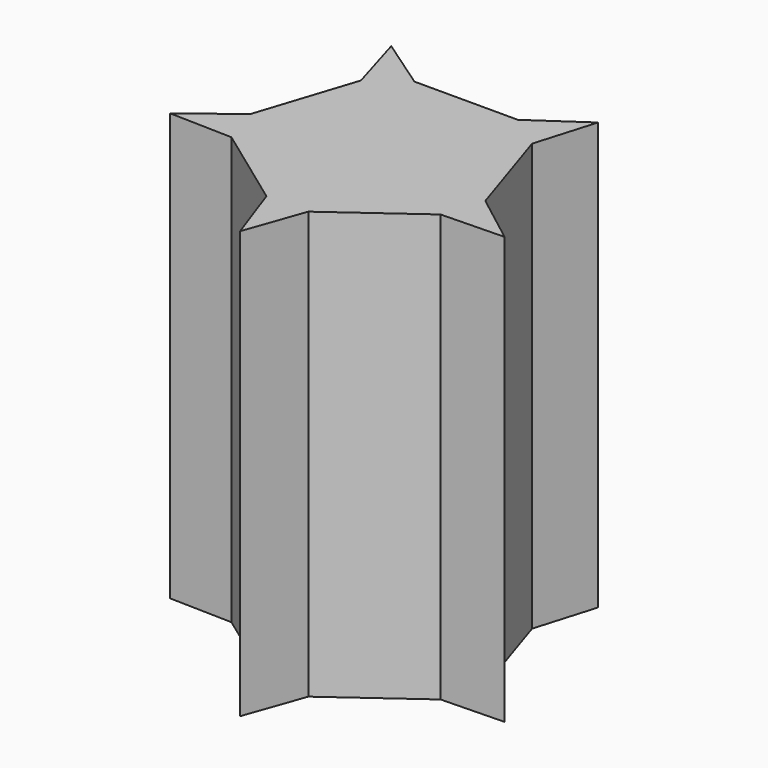
from build123d import *

# Parameters (mm, degrees)
F1_DEPTH = 60
F2_T     = -1
F4_DEPTH = 59
F6_DEPTH = 2


with BuildPart() as f1:
    # F0 (on Top) → F1 (new body)
    with BuildSketch(Plane.XY):
        Polygon((-7.2654252801, 15), (-14.5308505601, 20), (-12.0207078615, 11.5450849719), (-10.8981379201, 15), align=None)
        Polygon((-10.8981379201, 15), (-12.0207078615, 11.5450849719), (-9.510565163, 3.0901699437), (-16.5109876273, -2.2745751406), (-17.6335575688, -5.7294901688), (-14.6946313073, -7.8647450844), (-5.8778525229, -8.0901699437), (-2.9389262615, -16.4057647469), (0, -18.5410196625), (2.9389262615, -16.4057647469), (5.8778525229, -8.0901699437), (14.6946313073, -7.8647450844), (17.6335575688, -5.7294901688), (16.5109876273, -2.2745751406), (9.510565163, 3.0901699437), (12.0207078615, 11.5450849719), (10.8981379201, 15), (7.2654252801, 15), (0, 10), (-7.2654252801, 15), align=None)
        Polygon((-9.510565163, 3.0901699437), (-12.0207078615, 11.5450849719), (-16.5109876273, -2.2745751406), align=None)
        Polygon((7.2654252801, 15), (-7.2654252801, 15), (0, 10), align=None)
        Polygon((-17.6335575688, -5.7294901688), (-16.5109876273, -2.2745751406), (-23.5114100917, -7.639320225), (-14.6946313073, -7.8647450844), align=None)
        Polygon((14.5308505601, 20), (7.2654252801, 15), (10.8981379201, 15), (12.0207078615, 11.5450849719), align=None)
        Polygon((-5.8778525229, -8.0901699437), (-14.6946313073, -7.8647450844), (-2.9389262615, -16.4057647469), align=None)
        Polygon((16.5109876273, -2.2745751406), (12.0207078615, 11.5450849719), (9.510565163, 3.0901699437), align=None)
        Polygon((0, -18.5410196625), (-2.9389262615, -16.4057647469), (0, -24.72135955), (2.9389262615, -16.4057647469), align=None)
        Polygon((23.5114100917, -7.639320225), (16.5109876273, -2.2745751406), (17.6335575688, -5.7294901688), (14.6946313073, -7.8647450844), align=None)
        Polygon((5.8778525229, -8.0901699437), (2.9389262615, -16.4057647469), (14.6946313073, -7.8647450844), align=None)
    extrude(amount=F1_DEPTH)

    # F2
    f2_openings = [f1.faces().sort_by_distance(p)[0] for p in [
        (0, 0, 0),
    ]]
    offset(amount=F2_T, openings=f2_openings, kind=Kind.INTERSECTION)

    # F3 (on face) → F4 (join, through all)
    with BuildSketch(Plane(origin=(0, 0, 59), x_dir=(1, 0, 0), z_dir=(0, 0, -1))):
        Polygon((-15.6559881063, 2.8792251681), (-14.3583265336, 6.8730168274), (-20.6573081254, 6.7119662811), align=None)
        Polygon((0, 21.7203791484), (-2.0996605306, 15.7794590151), (2.0996605306, 15.7794590151), align=None)
        Polygon((20.6573081254, 6.7119662811), (14.3583265336, 6.8730168274), (15.6559881063, 2.8792251681), align=None)
        Polygon((12.7669185376, -17.5721558553), (10.9735943499, -11.5317010106), (7.5762722465, -14), align=None)
        Polygon((-7.5762722465, -14), (-10.9735943499, -11.5317010106), (-12.7669185376, -17.5721558553), align=None)
    extrude(amount=F4_DEPTH)

    # F5 (on face) → F6 (join)
    with BuildSketch(Plane(origin=(0, 0, 59), x_dir=(1, 0, 0), z_dir=(0, 0, -1))):
        with BuildLine():
            ThreePointArc((-1.9818535798, 1.8771366278), (-2.208391982, 1.6044906934), (-2.3976894584, 1.3047876426))
            Line((-2.3976894584, 1.3047876426), (-1.3090169944, 0.9510565163))
            Line((-1.3090169944, 0.9510565163), (-1.9818535798, 1.8771366278))
        make_face()
        with BuildLine():
            Line((-1.3090169944, 0.9510565163), (-2.3976894584, 1.3047876426))
            ThreePointArc((-2.3976894584, 1.3047876426), (-2.5961204766, 0.8435306766), (-2.7067064528, 0.3537311263))
            Line((-2.7067064528, 0.3537311263), (-1.6180339887, 0))
            Line((-1.6180339887, 0), (-2.7067064528, -0.3537311263))
            ThreePointArc((-2.7067064528, -0.3537311263), (-2.5961204766, -0.8435306766), (-2.3976894584, -1.3047876426))
            Line((-2.3976894584, -1.3047876426), (-1.3090169944, -0.9510565163))
            Line((-1.3090169944, -0.9510565163), (-1.9818535798, -1.8771366278))
            ThreePointArc((-1.9818535798, -1.8771366278), (-1.6044906934, -2.208391982), (-1.1728365854, -2.4649218801))
            Line((-1.1728365854, -2.4649218801), (-0.5, -1.5388417686))
            Line((-0.5, -1.5388417686), (-0.5, -2.6835397391))
            ThreePointArc((-0.5, -2.6835397391), (1.21e-08, -2.7297226107), (0.5000000237, -2.6835397347))
            Line((0.5000000237, -2.6835397347), (0.5000000237, -1.5388418013))
            Line((0.5000000237, -1.5388418013), (1.1728365854, -2.4649218801))
            ThreePointArc((1.1728365854, -2.4649218801), (1.6044906934, -2.208391982), (1.9818535798, -1.8771366278))
            Line((1.9818535798, -1.8771366278), (1.3090169944, -0.9510565163))
            Line((1.3090169944, -0.9510565163), (2.3976894584, -1.3047876426))
            ThreePointArc((2.3976894584, -1.3047876426), (2.5961204766, -0.8435306766), (2.7067064528, -0.3537311263))
            Line((2.7067064528, -0.3537311263), (1.6180339887, 0))
            Line((1.6180339887, 0), (2.7067064528, 0.3537311263))
            ThreePointArc((2.7067064528, 0.3537311263), (2.5961204766, 0.8435306766), (2.3976894584, 1.3047876426))
            Line((2.3976894584, 1.3047876426), (1.3090169944, 0.9510565163))
            Line((1.3090169944, 0.9510565163), (1.9818535798, 1.8771366278))
            ThreePointArc((1.9818535798, 1.8771366278), (1.6044906934, 2.208391982), (1.1728365854, 2.4649218801))
            Line((1.1728365854, 2.4649218801), (0.5, 1.5388417686))
            Line((0.5, 1.5388417686), (0.5, 2.6835397391))
            ThreePointArc((0.5, 2.6835397391), (0, 2.7297226107), (-0.5, 2.6835397391))
            Line((-0.5, 2.6835397391), (-0.5, 1.5388417686))
            Line((-0.5, 1.5388417686), (-1.1728365854, 2.4649218801))
            ThreePointArc((-1.1728365854, 2.4649218801), (-1.6044906934, 2.208391982), (-1.9818535798, 1.8771366278))
            Line((-1.9818535798, 1.8771366278), (-1.3090169944, 0.9510565163))
        make_face()
        with BuildLine():
            Line((-1.6180339887, 0), (-2.7067064528, 0.3537311263))
            ThreePointArc((-2.7067064528, 0.3537311263), (-2.7297226107, 0), (-2.7067064528, -0.3537311263))
            Line((-2.7067064528, -0.3537311263), (-1.6180339887, 0))
        make_face()
        with BuildLine():
            ThreePointArc((-0.5, 2.6835397391), (-0.8435306766, 2.5961204766), (-1.1728365854, 2.4649218801))
            Line((-1.1728365854, 2.4649218801), (-0.5, 1.5388417686))
            Line((-0.5, 1.5388417686), (-0.5, 2.6835397391))
        make_face()
        with BuildLine():
            Line((-1.3090169944, -0.9510565163), (-2.3976894584, -1.3047876426))
            ThreePointArc((-2.3976894584, -1.3047876426), (-2.208391982, -1.6044906934), (-1.9818535798, -1.8771366278))
            Line((-1.9818535798, -1.8771366278), (-1.3090169944, -0.9510565163))
        make_face()
        with BuildLine():
            ThreePointArc((1.1728365854, 2.4649218801), (0.8435306766, 2.5961204766), (0.5, 2.6835397391))
            Line((0.5, 2.6835397391), (0.5, 1.5388417686))
            Line((0.5, 1.5388417686), (1.1728365854, 2.4649218801))
        make_face()
        with BuildLine():
            Line((-0.5, -1.5388417686), (-1.1728365854, -2.4649218801))
            ThreePointArc((-1.1728365854, -2.4649218801), (-0.8435306766, -2.5961204766), (-0.5, -2.6835397391))
            Line((-0.5, -2.6835397391), (-0.5, -1.5388417686))
        make_face()
        with BuildLine():
            ThreePointArc((2.3976894584, 1.3047876426), (2.208391982, 1.6044906934), (1.9818535798, 1.8771366278))
            Line((1.9818535798, 1.8771366278), (1.3090169944, 0.9510565163))
            Line((1.3090169944, 0.9510565163), (2.3976894584, 1.3047876426))
        make_face()
        with BuildLine():
            Line((0.5000000237, -1.5388418013), (0.5000000237, -2.6835397347))
            ThreePointArc((0.5000000237, -2.6835397347), (0.8435306881, -2.5961204728), (1.1728365854, -2.4649218801))
            Line((1.1728365854, -2.4649218801), (0.5000000237, -1.5388418013))
        make_face()
        with BuildLine():
            ThreePointArc((2.7297226107, 0), (2.7239624938, 0.1772395647), (2.7067064528, 0.3537311263))
            Line((2.7067064528, 0.3537311263), (1.6180339887, 0))
            Line((1.6180339887, 0), (2.7067064528, -0.3537311263))
            ThreePointArc((2.7067064528, -0.3537311263), (2.7239624938, -0.1772395647), (2.7297226107, 0))
        make_face()
        with BuildLine():
            Line((1.3090169944, -0.9510565163), (1.9818535798, -1.8771366278))
            ThreePointArc((1.9818535798, -1.8771366278), (2.208391982, -1.6044906934), (2.3976894584, -1.3047876426))
            Line((2.3976894584, -1.3047876426), (1.3090169944, -0.9510565163))
        make_face()
        with BuildLine():
            Line((-2.3976894584, 1.3047876426), (-14.8526488228, 5.3516492559))
            Line((-14.8526488228, 5.3516492559), (-15.1616658171, 4.4005927396))
            Line((-15.1616658171, 4.4005927396), (-2.7067064528, 0.3537311263))
            ThreePointArc((-2.7067064528, 0.3537311263), (-2.5961204766, 0.8435306766), (-2.3976894584, 1.3047876426))
        make_face()
        with BuildLine():
            Line((-8.6335020293, 11.0323452951), (-1.9818535798, 1.8771366278))
            ThreePointArc((-1.9818535798, 1.8771366278), (-1.6044906934, 2.208391982), (-1.1728365854, 2.4649218801))
            Line((-1.1728365854, 2.4649218801), (-7.8244850349, 11.6201305474))
            Line((-7.8244850349, 11.6201305474), (-8.6335020293, 11.0323452951))
        make_face()
        with BuildLine():
            Line((-0.5, 15.7794590151), (-0.5, 2.6835397391))
            ThreePointArc((-0.5, 2.6835397391), (0, 2.7297226107), (0.5, 2.6835397391))
            Line((0.5, 2.6835397391), (0.5, 15.7794590151))
            Line((0.5, 15.7794590151), (-0.5, 15.7794590151))
        make_face()
        with BuildLine():
            Line((7.8244850349, 11.6201305474), (1.1728365854, 2.4649218801))
            ThreePointArc((1.1728365854, 2.4649218801), (1.6044906934, 2.208391982), (1.9818535798, 1.8771366278))
            Line((1.9818535798, 1.8771366278), (8.6335020293, 11.0323452951))
            Line((8.6335020293, 11.0323452951), (7.8244850349, 11.6201305474))
        make_face()
        with BuildLine():
            Line((14.8526488228, 5.3516492559), (2.3976894584, 1.3047876426))
            ThreePointArc((2.3976894584, 1.3047876426), (2.5961204766, 0.8435306766), (2.7067064528, 0.3537311263))
            Line((2.7067064528, 0.3537311263), (15.1616658171, 4.4005927396))
            Line((15.1616658171, 4.4005927396), (14.8526488228, 5.3516492559))
        make_face()
        with BuildLine():
            Line((13.4692997253, -3.8507096631), (2.7067064528, -0.3537311263))
            ThreePointArc((2.7067064528, -0.3537311263), (2.5961204766, -0.8435306766), (2.3976894584, -1.3047876426))
            Line((2.3976894584, -1.3047876426), (13.1602827309, -4.8017661794))
            Line((13.1602827309, -4.8017661794), (13.4692997253, -3.8507096631))
        make_face()
        with BuildLine():
            ThreePointArc((1.9818535798, -1.8771366278), (1.6044906934, -2.208391982), (1.1728365854, -2.4649218801))
            Line((1.1728365854, -2.4649218801), (8.8704248011, -13.0597431314))
            Line((8.8704248011, -13.0597431314), (9.6794417954, -12.4719578791))
            Line((9.6794417954, -12.4719578791), (1.9818535798, -1.8771366278))
        make_face()
        with BuildLine():
            ThreePointArc((0.5000000237, -2.6835397347), (1.21e-08, -2.7297226107), (-0.5, -2.6835397391))
            Line((-0.5, -2.6835397391), (-0.5, -14))
            Line((-0.5, -14), (0.5000000237, -14))
            Line((0.5000000237, -14), (0.5000000237, -2.6835397347))
        make_face()
        with BuildLine():
            ThreePointArc((-1.1728365854, -2.4649218801), (-1.6044906934, -2.208391982), (-1.9818535798, -1.8771366278))
            Line((-1.9818535798, -1.8771366278), (-9.6794417954, -12.4719578791))
            Line((-9.6794417954, -12.4719578791), (-8.8704248011, -13.0597431314))
            Line((-8.8704248011, -13.0597431314), (-1.1728365854, -2.4649218801))
        make_face()
        with BuildLine():
            ThreePointArc((-2.3976894584, -1.3047876426), (-2.5961204766, -0.8435306766), (-2.7067064528, -0.3537311263))
            Line((-2.7067064528, -0.3537311263), (-13.4692997253, -3.8507096631))
            Line((-13.4692997253, -3.8507096631), (-13.1602827309, -4.8017661794))
            Line((-13.1602827309, -4.8017661794), (-2.3976894584, -1.3047876426))
        make_face()
    extrude(amount=F6_DEPTH)


solid = f1.part
